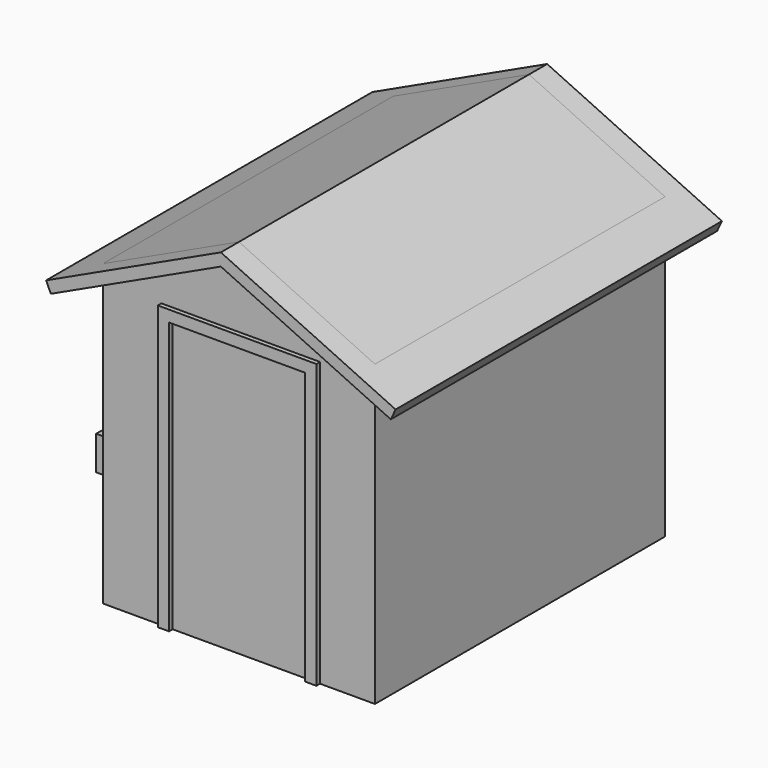
from build123d import *

# Parameters (mm, degrees)
F1_DEPTH  = 101.6
F3_DEPTH  = 2.54
F5_DEPTH  = 114.3
F6_W      = 50.8
F6_H      = 63.5
F6_W_2    = 38.1
F6_H_2    = 50.8
F7_DEPTH  = 2.54
F8_W      = 63.5
F8_H      = 19.05
F9_DEPTH  = 19.05
F10_W     = 13.716
F10_H     = 58.42
F11_DEPTH = 15.24


with BuildPart() as f1:
    # F0 (on Front) → F1 (new body, symmetric)
    with BuildSketch(Plane.XZ):
        Polygon((-76.2, 167.667356), (-76.2, 0), (76.2, 0), (76.2, 167.667356), (0, 203.2), align=None)
    extrude(amount=F1_DEPTH, both=True)

    # F2 (on face) → F3 (join)
    with BuildSketch(Plane.XZ.offset(101.6)):
        Polygon((-37.118237, 0), (-37.118237, 152.4), (39.081763, 152.4), (39.081763, 0), (45.431763, 0), (45.431763, 158.75), (-43.468237, 158.75), (-43.468237, 0), align=None)
    extrude(amount=F3_DEPTH)

    # F4 (on Front) → F5 (join, symmetric)
    with BuildSketch(Plane.XZ):
        Polygon((97.933626, 157.5328), (0, 203.2), (-97.933626, 157.5328), (-95.25, 151.777746), (0, 196.19355), (95.25, 151.777746), align=None)
    extrude(amount=F5_DEPTH, both=True)

    # F6 (on face) → F7 (join)
    with BuildSketch(Plane(origin=(-76.2, 0, 0), x_dir=(0, -1, 0), z_dir=(-1, 0, 0))):
        with Locations((-50.8, 101.6)):
            Rectangle(F6_W, F6_H)
        with Locations((-50.8, 101.6)):
            Rectangle(F6_W_2, F6_H_2, mode=Mode.SUBTRACT)
        with Locations((50.8, 101.6)):
            Rectangle(F6_W, F6_H)
        with Locations((50.8, 101.6)):
            Rectangle(F6_W_2, F6_H_2, mode=Mode.SUBTRACT)
    extrude(amount=F7_DEPTH)

    # F8 (on face) → F9 (join)
    with BuildSketch(Plane(origin=(-76.2, 0, 0), x_dir=(0, -1, 0), z_dir=(-1, 0, 0))):
        with Locations((-50.8, 60.325)):
            Rectangle(F8_W, F8_H)
        with Locations((50.8, 60.325)):
            Rectangle(F8_W, F8_H)
    extrude(amount=F9_DEPTH)

    # F10 (on face) → F11 (cut)
    with BuildSketch(Plane.XY.offset(69.85)):
        with Locations((-85.852, 50.8)):
            Rectangle(F10_W, F10_H)
        with Locations((-85.852, -50.8)):
            Rectangle(F10_W, F10_H)
    extrude(amount=-F11_DEPTH, mode=Mode.SUBTRACT)


solid = f1.part
